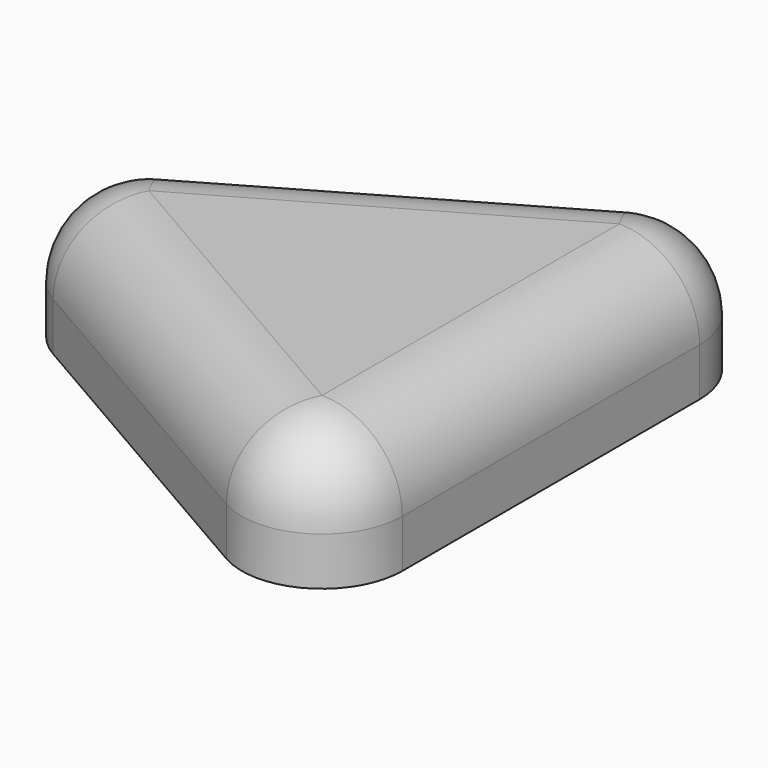
from build123d import *

# Parameters (mm, degrees)
F1_DEPTH = 8.128
F2_R     = 5.08
F3_R     = 5.08


with BuildPart() as f1:
    # F0 (on Top) → F1 (new body)
    with BuildSketch(Plane.XY):
        Polygon((11.867368, -20.554884), (11.867368, 20.554884), (-23.734735, 0), align=None)
    extrude(amount=F1_DEPTH)

    # F2
    f2_edges = [f1.edges().sort_by_distance(p)[0] for p in [
        (11.867368, -20.554884, 4.064),
        (-23.734735, 0, 4.064),
        (11.867368, 20.554884, 4.064),
    ]]
    fillet(f2_edges, radius=F2_R)

    # F3
    f3_edges = [f1.edges().sort_by_distance(p)[0] for p in [
        (11.867368, 0, 8.128),
    ]]
    fillet(f3_edges, radius=F3_R)


solid = f1.part
